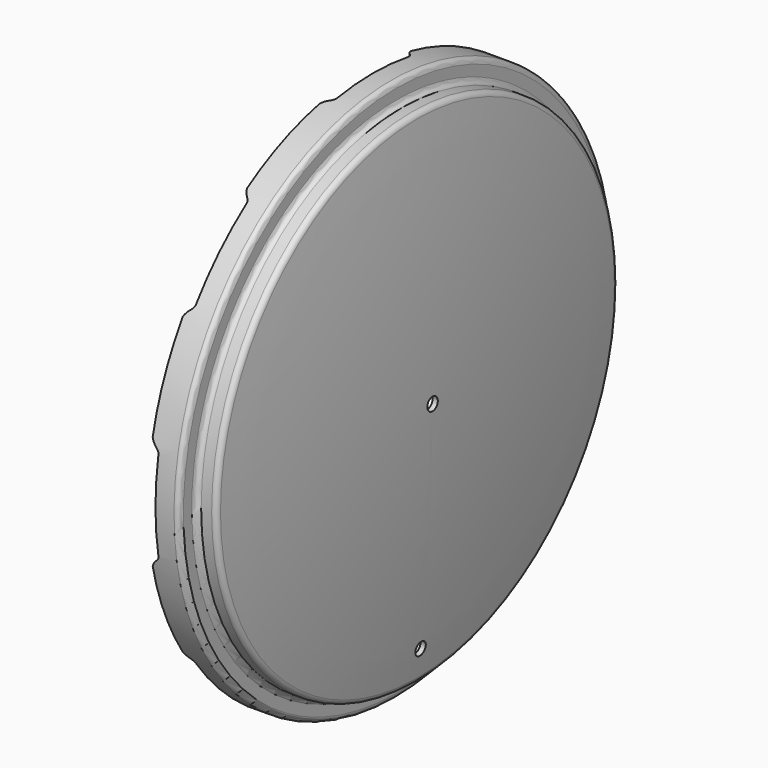
from build123d import *

# Parameters (mm, degrees)
POCKET001_DEPTH         = 1102.634355
POLARPATTERN001_COUNT   = 8
PAD003_DEPTH            = 2.54
POLARPATTERN002_COUNT   = 8
SKETCH034_R             = 3.96875
POCKET002_DEPTH         = 40.965834
BODY002_PLACEMENT_ANGLE = 90


with BuildPart() as part:
    # Sketch005 → Revolution001 (revolve)
    with BuildSketch(Plane.XY):
        with BuildLine():
            ThreePointArc((0, 0), (-2.305889, 74.949063), (-9.214833, 149.614621))
            ThreePointArc((-9.214833, 149.614621), (-10.263031, 151.603831), (-12.365836, 152.4))
            Line((-12.365836, 152.4), (-18.739833, 152.4))
            ThreePointArc((-21.914833, 155.575), (-20.984897, 153.329936), (-18.739833, 152.4))
            Line((-21.914833, 155.575), (-21.914833, 161.925))
            ThreePointArc((-21.914833, 161.925), (-22.844769, 164.170064), (-25.089833, 165.1))
            Line((-25.089833, 165.1), (-40.964833, 165.1))
            Line((-40.964833, 165.1), (-40.964833, 161.925))
            Line((-40.964833, 161.925), (-25.089833, 161.925))
            Line((-25.089833, 161.925), (-25.089833, 155.575))
            ThreePointArc((-25.089833, 155.575), (-23.229961, 151.084872), (-18.739833, 149.225))
            Line((-18.739833, 149.225), (-12.365836, 149.225))
            ThreePointArc((-3.175, 0), (-5.474884, 74.753883), (-12.365836, 149.225))
            Line((-3.175, 0), (0, 0))
        make_face()
    revolve(axis=Axis((0, 0, 0), (1, 0, 0)))

    # Sketch011 → Pocket001 (cut, through all)
    with BuildSketch(Plane.XZ):
        with BuildLine():
            Line((-36.3474, 26.9875), (-36.3474, -26.9875))
            add(Edge.make_bspline(
                [(-36.3474, -26.9875), (-36.3474, -30.1625), (-39.5224, -30.1625), (-41.1074, -34.925)],
                knots=[0, 0, 0, 0, 1, 1, 1, 1], degree=3))
            Line((-41.1074, -34.925), (-41.1074, 34.925))
            add(Edge.make_bspline(
                [(-36.3474, 26.9875), (-36.3474, 30.1625), (-39.5224, 30.1625), (-41.1074, 34.925)],
                knots=[0, 0, 0, 0, 1, 1, 1, 1], degree=3))
        make_face()
    pocket001 = extrude(amount=-POCKET001_DEPTH, mode=Mode.SUBTRACT)

    # PolarPattern001: Pocket001 ×8 about axis
    polarpattern001_axis = Axis((0, 0, 0), (1, 0, 0))
    for i in range(1, POLARPATTERN001_COUNT):
        add(pocket001.rotate(polarpattern001_axis, i * 360 / POLARPATTERN001_COUNT), mode=Mode.SUBTRACT)

    # Sketch033 (on Face8 of PolarPattern001) → Pad003 (join)
    with BuildSketch(Plane(origin=(-36.3474, 0, 0), x_dir=(0, -1, 0), z_dir=(-1, 0, 0))):
        with BuildLine():
            ThreePointArc((-159.660203, 26.9875), (-161.925, 0), (-159.660203, -26.9875))
            Line((-159.660203, -26.9875), (-159.130227, -26.9875))
            ThreePointArc((-159.130227, -26.9875), (-157.394228, -26.188814), (-156.871281, -24.350848))
            ThreePointArc((-156.871281, 24.350848), (-158.75, 0), (-156.871281, -24.350848))
            ThreePointArc((-156.871281, 24.350848), (-157.394228, 26.188814), (-159.130227, 26.9875))
            Line((-159.660203, 26.9875), (-159.130227, 26.9875))
        make_face()
    pad003 = extrude(amount=-PAD003_DEPTH)

    # PolarPattern002: Pad003 ×8 about axis
    polarpattern002_axis = Axis((-36.3474, 0, 0), (-1, 0, 0))
    for i in range(1, POLARPATTERN002_COUNT):
        add(pad003.rotate(polarpattern002_axis, i * 360 / POLARPATTERN002_COUNT))

    # Sketch034 → Pocket002 (cut, through all)
    with BuildSketch(Plane.YZ):
        Circle(SKETCH034_R)
        with Locations((133.35, 0)):
            Circle(SKETCH034_R)
    extrude(amount=-POCKET002_DEPTH, mode=Mode.SUBTRACT)


with BuildPart() as part_1:
    # Body002 placement: moved
    add(part.part.moved(Location((319.087, 0, 0))).rotate(Axis((319.087, 0, 0), (-1, 0, 0)), BODY002_PLACEMENT_ANGLE))


solid = part_1.part
